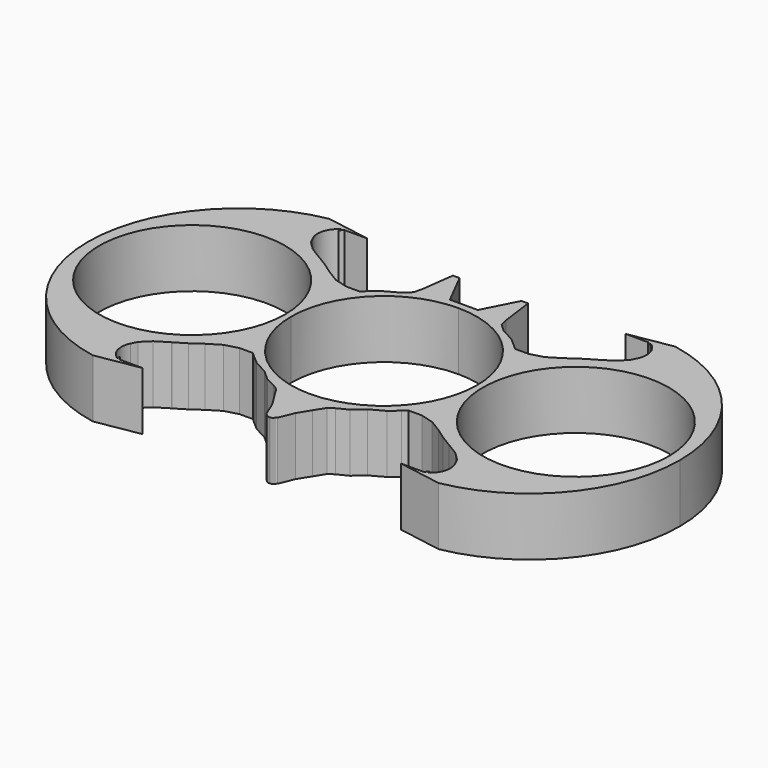
from build123d import *

# Parameters (mm, degrees)
F1_DEPTH = 7


with BuildPart() as f1:
    # F0 (on Top) → F1 (new body)
    with BuildSketch(Plane.XY):
        with BuildLine():
            Line((-9.5156790438, 8.0177858472), (-11.1935704821, 8.0177858472))
            Line((-11.1935704821, 8.0177858472), (-11.1935704821, 7.1842455149))
            ThreePointArc((-11.1935704821, 7.1842455149), (-3.2916522024, 3.9111637946), (-0.0185704821, -3.9907544851))
            Line((-0.0185704821, -3.9907544851), (0.6968380189, -3.9907544851))
            ThreePointArc((0.6968380189, -3.9907544851), (11.8818380189, 7.1942455149), (23.0668380189, -3.9907544851))
            Line((23.0668380189, -3.9907544851), (24.3879653764, -3.9907544851))
            ThreePointArc((24.3879653764, -3.9907544851), (20.2046001278, 7.574637803), (9.5905543801, 13.7875981641))
            Line((9.5905543801, 13.7875981641), (4.3414574909, 12.8877644123))
            Line((4.3414574909, 12.8877644123), (7.0621605543, 12.8877644123))
            Line((7.0621605543, 12.8877644123), (7.1005078763, 12.9391789266))
            Line((7.1005078763, 12.9391789266), (7.0621605543, 12.9979698101))
            ThreePointArc((7.0621605543, 12.9979698101), (7.0936847528, 12.9852326851), (7.1250260168, 12.9720518424))
            Line((7.1250260168, 12.9720518424), (7.434807209, 13.3873937414))
            Line((7.434807209, 13.3873937414), (7.434807209, 12.8117063385))
            ThreePointArc((7.434807209, 12.8117063385), (8.491424386, 11.4206477043), (8.3299577236, 9.68127641))
            Line((8.3299577236, 9.68127641), (7.9968838744, 9.0151312817))
            Line((7.9968838744, 9.0151312817), (6.9897325292, 8.0177858472))
            Line((6.9897325292, 8.0177858472), (5.4971418776, 7.0902415154))
            Line((5.4971418776, 7.0902415154), (5.4365344596, 7.0707021364))
            Line((5.4365344596, 7.0707021364), (4.1030183685, 6.2526246615))
            Line((4.1030183685, 6.2526246615), (2.8443824751, 5.3654393264))
            Line((2.8443824751, 5.3654393264), (1.3687987131, 4.4671497308))
            Line((1.3687987131, 4.4671497308), (-0.2305540937, 4.0228855796))
            Line((-0.2305540937, 4.0228855796), (-1.8416251987, 4.0228855796))
            Line((-1.8416251987, 4.0228855796), (-2.3177509651, 4.4671497308))
            Line((-2.3177509651, 4.4671497308), (-3.372264767, 5.3654393264))
            Line((-3.372264767, 5.3654393264), (-5.0061216356, 6.2526246615))
            Line((-5.0061216356, 6.2526246615), (-5.8977964759, 7.0707021364))
            Line((-5.8977964759, 7.0707021364), (-6.1392687011, 8.0177858472))
            Line((-6.1392687011, 8.0177858472), (-6.6723875451, 12.0196435601))
            Line((-6.6723875451, 12.0196435601), (-7.4720630172, 12.0196435601))
            Line((-7.4720630172, 12.0196435601), (-9.5156790438, 8.0177858472))
        make_face()
        with BuildLine():
            Line((-11.1935704821, 7.1842455149), (-11.1935704821, 8.0177858472))
            Line((-11.1935704821, 8.0177858472), (-12.8714619204, 8.0177858472))
            Line((-12.8714619204, 8.0177858472), (-14.9150779471, 12.0196435601))
            Line((-14.9150779471, 12.0196435601), (-15.7147534192, 12.0196435601))
            Line((-15.7147534192, 12.0196435601), (-16.2478722632, 8.0177858472))
            Line((-16.2478722632, 8.0177858472), (-16.4893444883, 7.0707021364))
            Line((-16.4893444883, 7.0707021364), (-17.3810193286, 6.2526246615))
            Line((-17.3810193286, 6.2526246615), (-19.0148761972, 5.3654393264))
            Line((-19.0148761972, 5.3654393264), (-20.0693899991, 4.4671497308))
            Line((-20.0693899991, 4.4671497308), (-20.5455157655, 4.0228855796))
            Line((-20.5455157655, 4.0228855796), (-22.1565868706, 4.0228855796))
            Line((-22.1565868706, 4.0228855796), (-23.7559396774, 4.4671497308))
            Line((-23.7559396774, 4.4671497308), (-25.2315234393, 5.3654393264))
            Line((-25.2315234393, 5.3654393264), (-26.4901593328, 6.2526246615))
            Line((-26.4901593328, 6.2526246615), (-27.8236754239, 7.0707021364))
            Line((-27.8236754239, 7.0707021364), (-27.8842828419, 7.0902415154))
            Line((-27.8842828419, 7.0902415154), (-29.3768734935, 8.0177858472))
            Line((-29.3768734935, 8.0177858472), (-30.3840248386, 9.0151312817))
            Line((-30.3840248386, 9.0151312817), (-30.7170986879, 9.68127641))
            ThreePointArc((-30.7170986879, 9.68127641), (-30.8785653503, 11.4206477043), (-29.8219481732, 12.8117063385))
            Line((-29.8219481732, 12.8117063385), (-29.8219481732, 13.3873937414))
            Line((-29.8219481732, 13.3873937414), (-29.5121669811, 12.9720518424))
            ThreePointArc((-29.5121669811, 12.9720518424), (-29.4808257171, 12.9852326851), (-29.4493015186, 12.9979698101))
            Line((-29.4493015186, 12.9979698101), (-29.4876488406, 12.9391789266))
            Line((-29.4876488406, 12.9391789266), (-29.4493015186, 12.8877644123))
            Line((-29.4493015186, 12.8877644123), (-26.7285984551, 12.8877644123))
            Line((-26.7285984551, 12.8877644123), (-31.9776953444, 13.7875981641))
            ThreePointArc((-31.9776953444, 13.7875981641), (-42.591741092, 7.574637803), (-46.7751063406, -3.9907544851))
            Line((-46.7751063406, -3.9907544851), (-45.4539789832, -3.9907544851))
            ThreePointArc((-45.4539789832, -3.9907544851), (-34.2689789832, 7.1942455149), (-23.0839789832, -3.9907544851))
            Line((-23.0839789832, -3.9907544851), (-22.3685704821, -3.9907544851))
            ThreePointArc((-22.3685704821, -3.9907544851), (-19.0954887619, 3.9111637946), (-11.1935704821, 7.1842455149))
        make_face()
        with BuildLine():
            Line((0.6968380189, -3.9907544851), (-0.0185704821, -3.9907544851))
            ThreePointArc((-0.0185704821, -3.9907544851), (-3.2916522024, -11.8926727649), (-11.1935704821, -15.1657544851))
            Line((-11.1935704821, -15.1657544851), (-11.1935704821, -20.9864545614))
            Line((-11.1935704821, -20.9864545614), (-11.1935704821, -21.2352294797))
            Line((-11.1935704821, -21.2352294797), (-11.0093258071, -21.2222263217))
            Line((-11.0093258071, -21.2222263217), (-10.8436854306, -21.1433488876))
            Line((-10.8436854306, -21.1433488876), (-10.7095954689, -20.9934841841))
            Line((-10.7095954689, -20.9934841841), (-10.5240434158, -20.8122693002))
            Line((-10.5240434158, -20.8122693002), (-9.7980234521, -19.0612804145))
            Line((-9.7980234521, -19.0612804145), (-8.9011756453, -17.6092404872))
            Line((-8.9011756453, -17.6092404872), (-8.1324489537, -16.3707379252))
            Line((-8.1324489537, -16.3707379252), (-7.4918433773, -15.9436669201))
            Line((-7.4918433773, -15.9436669201), (-6.2106322247, -15.3030613437))
            Line((-6.2106322247, -15.3030613437), (-5.0061216356, -14.2341336318))
            Line((-5.0061216356, -14.2341336318), (-3.372264767, -13.3469482966))
            Line((-3.372264767, -13.3469482966), (-2.3177509651, -12.448658701))
            Line((-2.3177509651, -12.448658701), (-1.8416251987, -12.0043945499))
            Line((-1.8416251987, -12.0043945499), (-0.2305540937, -12.0043945499))
            Line((-0.2305540937, -12.0043945499), (1.3687987131, -12.448658701))
            Line((1.3687987131, -12.448658701), (2.8443824751, -13.3469482966))
            Line((2.8443824751, -13.3469482966), (4.1030183685, -14.2341336318))
            Line((4.1030183685, -14.2341336318), (5.4365344596, -15.0522111066))
            Line((5.4365344596, -15.0522111066), (5.4971418776, -15.0717504856))
            Line((5.4971418776, -15.0717504856), (6.9897325292, -15.9992948174))
            Line((6.9897325292, -15.9992948174), (7.9968838744, -16.996640252))
            Line((7.9968838744, -16.996640252), (8.3299577236, -17.6627853803))
            ThreePointArc((8.3299577236, -17.6627853803), (8.491424386, -19.4021566746), (7.434807209, -20.7932153088))
            Line((7.434807209, -20.7932153088), (7.434807209, -21.3689027117))
            Line((7.434807209, -21.3689027117), (7.1250260168, -20.9535608126))
            ThreePointArc((7.1250260168, -20.9535608126), (7.0936847528, -20.9667416554), (7.0621605543, -20.9794787804))
            Line((7.0621605543, -20.9794787804), (7.1005078763, -20.9206878969))
            Line((7.1005078763, -20.9206878969), (7.0621605543, -20.8692733825))
            Line((7.0621605543, -20.8692733825), (4.3414574909, -20.8692733825))
            Line((4.3414574909, -20.8692733825), (9.5905543801, -21.7691071344))
            ThreePointArc((9.5905543801, -21.7691071344), (20.2046001278, -15.5561467733), (24.3879653764, -3.9907544851))
            Line((24.3879653764, -3.9907544851), (23.0668380189, -3.9907544851))
            ThreePointArc((23.0668380189, -3.9907544851), (11.8818380189, -15.1757544851), (0.6968380189, -3.9907544851))
        make_face()
        with BuildLine():
            ThreePointArc((-11.1935704821, -15.1657544851), (-19.0954887619, -11.8926727649), (-22.3685704821, -3.9907544851))
            Line((-22.3685704821, -3.9907544851), (-23.0839789832, -3.9907544851))
            ThreePointArc((-23.0839789832, -3.9907544851), (-34.2689789832, -15.1757544851), (-45.4539789832, -3.9907544851))
            Line((-45.4539789832, -3.9907544851), (-46.7751063406, -3.9907544851))
            ThreePointArc((-46.7751063406, -3.9907544851), (-42.591741092, -15.5561467733), (-31.9776953444, -21.7691071344))
            Line((-31.9776953444, -21.7691071344), (-26.7285984551, -20.8692733825))
            Line((-26.7285984551, -20.8692733825), (-29.4493015186, -20.8692733825))
            Line((-29.4493015186, -20.8692733825), (-29.4876488406, -20.9206878969))
            Line((-29.4876488406, -20.9206878969), (-29.4493015186, -20.9794787804))
            ThreePointArc((-29.4493015186, -20.9794787804), (-29.4808257171, -20.9667416554), (-29.5121669811, -20.9535608126))
            Line((-29.5121669811, -20.9535608126), (-29.8219481732, -21.3689027117))
            Line((-29.8219481732, -21.3689027117), (-29.8219481732, -20.7932153088))
            ThreePointArc((-29.8219481732, -20.7932153088), (-30.8785653503, -19.4021566746), (-30.7170986879, -17.6627853803))
            Line((-30.7170986879, -17.6627853803), (-30.3840248386, -16.996640252))
            Line((-30.3840248386, -16.996640252), (-29.3768734935, -15.9992948174))
            Line((-29.3768734935, -15.9992948174), (-27.8842828419, -15.0717504856))
            Line((-27.8842828419, -15.0717504856), (-27.8236754239, -15.0522111066))
            Line((-27.8236754239, -15.0522111066), (-26.4901593328, -14.2341336318))
            Line((-26.4901593328, -14.2341336318), (-25.2315234393, -13.3469482966))
            Line((-25.2315234393, -13.3469482966), (-23.7559396774, -12.448658701))
            Line((-23.7559396774, -12.448658701), (-22.1565868706, -12.0043945499))
            Line((-22.1565868706, -12.0043945499), (-20.5455157655, -12.0043945499))
            Line((-20.5455157655, -12.0043945499), (-20.0693899991, -12.448658701))
            Line((-20.0693899991, -12.448658701), (-19.0148761972, -13.3469482966))
            Line((-19.0148761972, -13.3469482966), (-17.3810193286, -14.2341336318))
            Line((-17.3810193286, -14.2341336318), (-16.1765087396, -15.3030613437))
            Line((-16.1765087396, -15.3030613437), (-14.8952975869, -15.9436669201))
            Line((-14.8952975869, -15.9436669201), (-14.2546920106, -16.3707379252))
            Line((-14.2546920106, -16.3707379252), (-13.485965319, -17.6092404872))
            Line((-13.485965319, -17.6092404872), (-12.5891175121, -19.0612804145))
            Line((-12.5891175121, -19.0612804145), (-11.8630975485, -20.8122693002))
            Line((-11.8630975485, -20.8122693002), (-11.6775454953, -20.9934841841))
            Line((-11.6775454953, -20.9934841841), (-11.5434555337, -21.1433488876))
            Line((-11.5434555337, -21.1433488876), (-11.3778151572, -21.2222263217))
            Line((-11.3778151572, -21.2222263217), (-11.1935704821, -21.2352294797))
            Line((-11.1935704821, -21.2352294797), (-11.1935704821, -20.9864545614))
            Line((-11.1935704821, -20.9864545614), (-11.1935704821, -15.1657544851))
        make_face()
        with BuildLine():
            Line((7.0621605543, 12.9979698101), (7.1005078763, 12.9391789266))
            Line((7.1005078763, 12.9391789266), (7.1250260168, 12.9720518424))
            ThreePointArc((7.1250260168, 12.9720518424), (7.0936847528, 12.9852326851), (7.0621605543, 12.9979698101))
        make_face()
        with BuildLine():
            Line((7.1250260168, 12.9720518424), (7.1005078763, 12.9391789266))
            Line((7.1005078763, 12.9391789266), (7.434807209, 12.4266593527))
            Line((7.434807209, 12.4266593527), (7.434807209, 12.8117063385))
            ThreePointArc((7.434807209, 12.8117063385), (7.2828231187, 12.897494345), (7.1250260168, 12.9720518424))
        make_face()
        with BuildLine():
            Line((7.434807209, -20.4081683229), (7.1005078763, -20.9206878969))
            Line((7.1005078763, -20.9206878969), (7.1250260168, -20.9535608126))
            ThreePointArc((7.1250260168, -20.9535608126), (7.2828231187, -20.8790033153), (7.434807209, -20.7932153088))
            Line((7.434807209, -20.7932153088), (7.434807209, -20.4081683229))
        make_face()
        with BuildLine():
            Line((7.1250260168, -20.9535608126), (7.1005078763, -20.9206878969))
            Line((7.1005078763, -20.9206878969), (7.0621605543, -20.9794787804))
            ThreePointArc((7.0621605543, -20.9794787804), (7.0936847528, -20.9667416554), (7.1250260168, -20.9535608126))
        make_face()
        with BuildLine():
            Line((-29.5121669811, 12.9720518424), (-29.4876488406, 12.9391789266))
            Line((-29.4876488406, 12.9391789266), (-29.4493015186, 12.9979698101))
            ThreePointArc((-29.4493015186, 12.9979698101), (-29.4808257171, 12.9852326851), (-29.5121669811, 12.9720518424))
        make_face()
        with BuildLine():
            Line((-29.8219481732, 12.4266593527), (-29.4876488406, 12.9391789266))
            Line((-29.4876488406, 12.9391789266), (-29.5121669811, 12.9720518424))
            ThreePointArc((-29.5121669811, 12.9720518424), (-29.6699640829, 12.897494345), (-29.8219481732, 12.8117063385))
            Line((-29.8219481732, 12.8117063385), (-29.8219481732, 12.4266593527))
        make_face()
        with BuildLine():
            Line((-29.4493015186, -20.9794787804), (-29.4876488406, -20.9206878969))
            Line((-29.4876488406, -20.9206878969), (-29.5121669811, -20.9535608126))
            ThreePointArc((-29.5121669811, -20.9535608126), (-29.4808257171, -20.9667416554), (-29.4493015186, -20.9794787804))
        make_face()
        with BuildLine():
            Line((-29.5121669811, -20.9535608126), (-29.4876488406, -20.9206878969))
            Line((-29.4876488406, -20.9206878969), (-29.8219481732, -20.4081683229))
            Line((-29.8219481732, -20.4081683229), (-29.8219481732, -20.7932153088))
            ThreePointArc((-29.8219481732, -20.7932153088), (-29.6699640829, -20.8790033153), (-29.5121669811, -20.9535608126))
        make_face()
        with BuildLine():
            Line((7.434807209, 13.3873937414), (7.1250260168, 12.9720518424))
            ThreePointArc((7.1250260168, 12.9720518424), (7.2828231187, 12.897494345), (7.434807209, 12.8117063385))
            Line((7.434807209, 12.8117063385), (7.434807209, 13.3873937414))
        make_face()
        with BuildLine():
            ThreePointArc((7.434807209, -20.7932153088), (7.2828231187, -20.8790033153), (7.1250260168, -20.9535608126))
            Line((7.1250260168, -20.9535608126), (7.434807209, -21.3689027117))
            Line((7.434807209, -21.3689027117), (7.434807209, -20.7932153088))
        make_face()
        with BuildLine():
            ThreePointArc((-29.8219481732, 12.8117063385), (-29.6699640829, 12.897494345), (-29.5121669811, 12.9720518424))
            Line((-29.5121669811, 12.9720518424), (-29.8219481732, 13.3873937414))
            Line((-29.8219481732, 13.3873937414), (-29.8219481732, 12.8117063385))
        make_face()
        with BuildLine():
            Line((-29.8219481732, -21.3689027117), (-29.5121669811, -20.9535608126))
            ThreePointArc((-29.5121669811, -20.9535608126), (-29.6699640829, -20.8790033153), (-29.8219481732, -20.7932153088))
            Line((-29.8219481732, -20.7932153088), (-29.8219481732, -21.3689027117))
        make_face()
    extrude(amount=F1_DEPTH)


solid = f1.part
